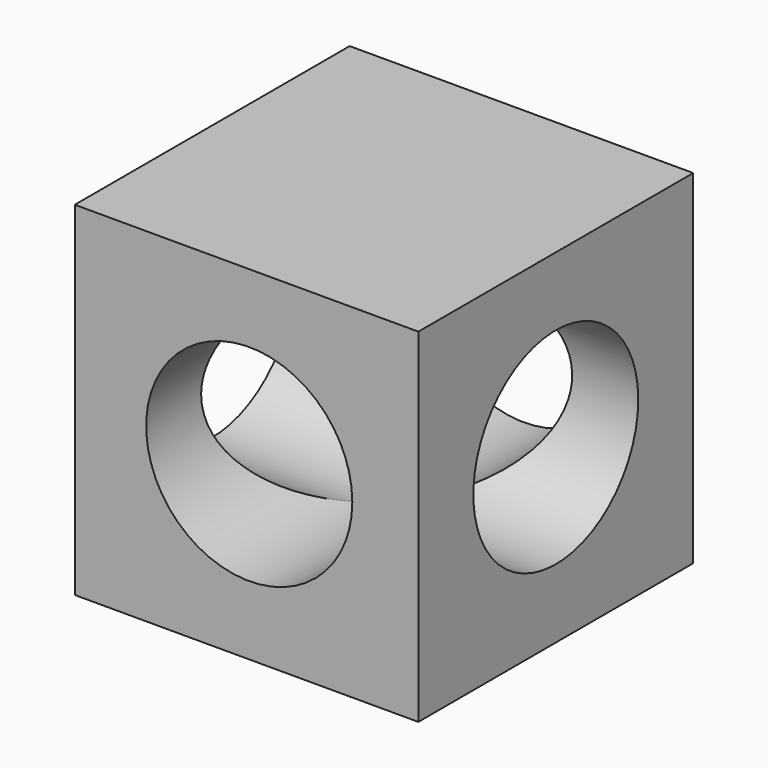
from build123d import *

# Parameters (mm, degrees)
F0_W     = 127
F0_H     = 127
F1_DEPTH = 127
F2_R     = 38.1
F3_DEPTH = 127.001
F4_R     = 38.1
F5_DEPTH = 127.001


with BuildPart() as f1:
    # F0 (on Front) → F1 (new body)
    with BuildSketch(Plane.XZ):
        with Locations((-0.983404, -0.074951)):
            Rectangle(F0_W, F0_H)
    extrude(amount=F1_DEPTH)

    # F2 (on face) → F3 (cut, through all)
    with BuildSketch(Plane.XZ.offset(127)):
        Circle(F2_R)
    extrude(amount=-F3_DEPTH, mode=Mode.SUBTRACT)

    # F4 (on face) → F5 (cut, through all)
    with BuildSketch(Plane.YZ.offset(62.516596)):
        with Locations((-63.5, 0)):
            Circle(F4_R)
    extrude(amount=-F5_DEPTH, mode=Mode.SUBTRACT)


solid = f1.part
